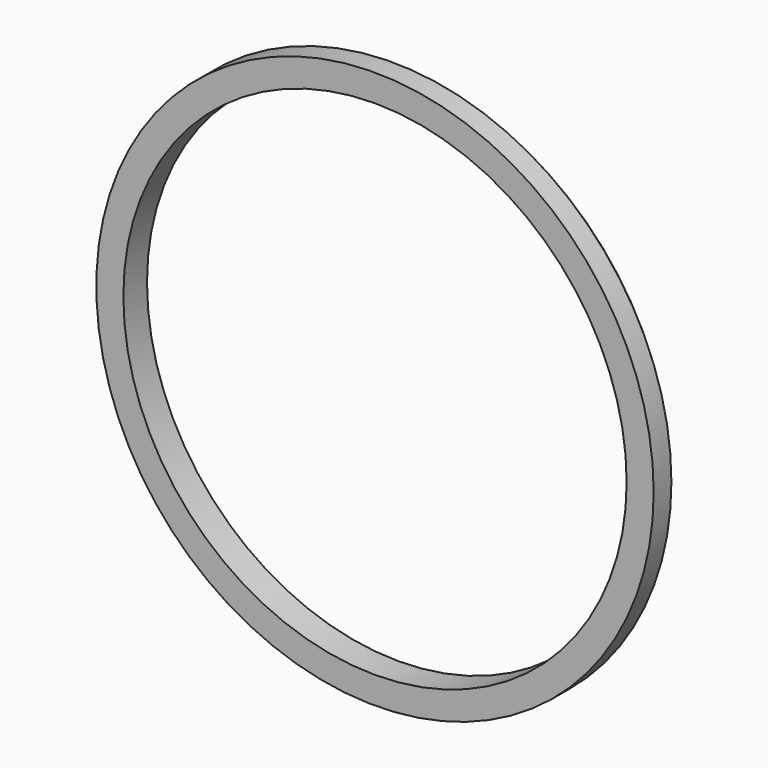
from build123d import *

# Parameters (mm, degrees)
F0_R     = 17.018
F0_R_2   = 18.846805
F1_DEPTH = 2
F2_DEPTH = 25
F3_SIZE  = 0.5


with BuildPart() as f1:
    # F0 (on Front) → F1 (new body)
    with BuildSketch(Plane.XZ):
        Circle(F0_R)
        Circle(F0_R_2)
        Circle(F0_R, mode=Mode.SUBTRACT)
    extrude(amount=F1_DEPTH)

    # F0 (on Front) → F2 (cut)
    with BuildSketch(Plane.XZ):
        Circle(F0_R)
    extrude(amount=F2_DEPTH, mode=Mode.SUBTRACT)

    # F3
    f3_edges = [f1.edges().sort_by_distance(p)[0] for p in [
        (-18.846805, 0, 0),
    ]]
    chamfer(f3_edges, length=F3_SIZE)


solid = f1.part
